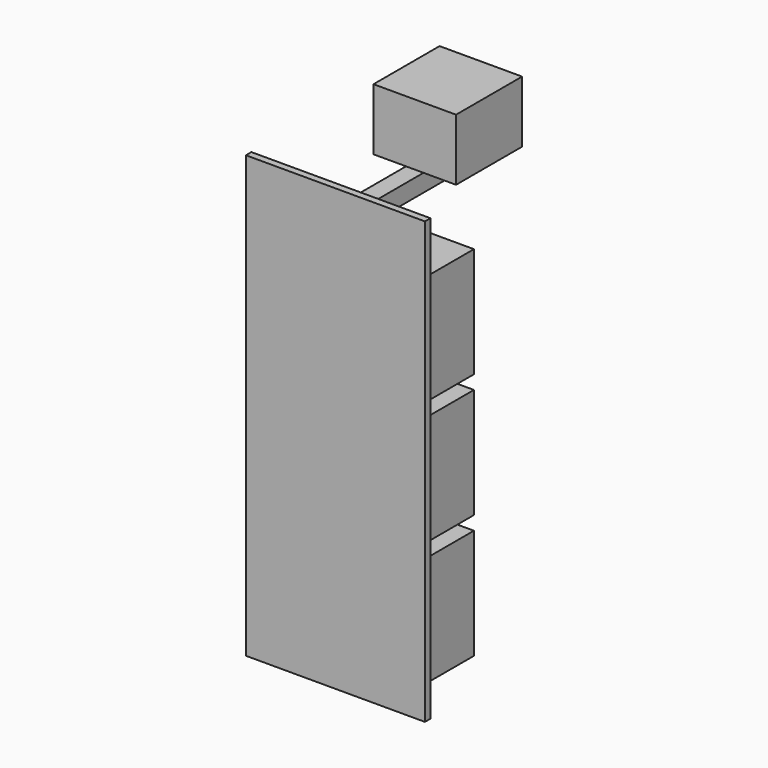
from build123d import *

# Parameters (mm, degrees)
BOX_W        = 240.03
BOX_H        = 91.44
BOX_DEPTH    = 160.02
BOX001_W     = 240.03
BOX001_H     = 91.44
BOX001_DEPTH = 160.02
BOX002_W     = 240.03
BOX002_H     = 91.44
BOX002_DEPTH = 160.02
BOX003_W     = 119.89
BOX003_H     = 119.89
BOX003_DEPTH = 89.66
BOX005_W     = 25.4
BOX005_H     = 254
BOX005_DEPTH = 25.4
BOX006_W     = 260.03
BOX006_H     = 10
BOX006_DEPTH = 640


with BuildPart() as power_module:
    # Box → Box (new body)
    with BuildSketch(Plane.XY):
        with Locations((120.015, 45.72)):
            Rectangle(BOX_W, BOX_H)
    extrude(amount=BOX_DEPTH)


with BuildPart() as main_module:
    # Box001 → Box001 (new body)
    with BuildSketch(Plane.XY.offset(180)):
        with Locations((120.015, 45.72)):
            Rectangle(BOX001_W, BOX001_H)
    extrude(amount=BOX001_DEPTH)


with BuildPart() as ozone_module:
    # Box002 → Box002 (new body)
    with BuildSketch(Plane.XY.offset(360)):
        with Locations((120.015, 45.72)):
            Rectangle(BOX002_W, BOX002_H)
    extrude(amount=BOX002_DEPTH)


with BuildPart() as light_module:
    # Box003 → Box003 (new body)
    with BuildSketch(Plane(origin=(60.05, 134.1, 565.4), x_dir=(1, 0, 0), z_dir=(0, 0, 1))):
        with Locations((59.945, 59.945)):
            Rectangle(BOX003_W, BOX003_H)
    extrude(amount=BOX003_DEPTH)


with BuildPart() as railing:
    # Box005 → Box005 (new body)
    with BuildSketch(Plane(origin=(107.3, 0, 540), x_dir=(1, 0, 0), z_dir=(0, 0, 1))):
        with Locations((12.7, 127)):
            Rectangle(BOX005_W, BOX005_H)
    extrude(amount=BOX005_DEPTH)


with BuildPart() as backpanel:
    # Box006 → Box006 (new body)
    with BuildSketch(Plane(origin=(-10, -10, -40), x_dir=(1, 0, 0), z_dir=(0, 0, 1))):
        with Locations((130.015, 5)):
            Rectangle(BOX006_W, BOX006_H)
    extrude(amount=BOX006_DEPTH)


solid = Compound([power_module.part, main_module.part, ozone_module.part, light_module.part, railing.part, backpanel.part])
